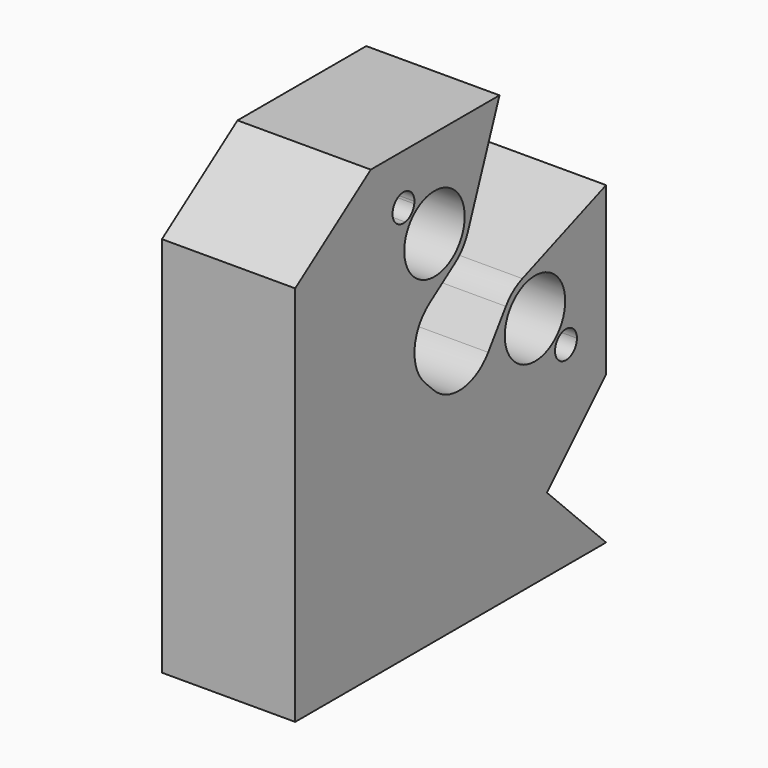
from build123d import *

# Parameters (mm, degrees)
F0_R     = 2.55
F1_DEPTH = 9
F2_DEPTH = 0.8
F4_DEPTH = 9
F7_DEPTH = 9


with BuildPart() as f1:
    # F0 (on Right) → F1 (new body)
    with BuildSketch(Plane.YZ):
        with BuildLine():
            ThreePointArc((-26.7124370169, 10.1882511594), (-26.3563013281, 6.3563288866), (-22.5219113781, 6.0278252414))
            ThreePointArc((-22.5219113781, 6.0278252414), (-21.875519954, 6.6422568398), (-21.4383157397, 7.4195602151))
            ThreePointArc((-21.4383157397, 7.4195602151), (-21.2919649304, 7.9435133623), (-21.2426406871, 8.4852813742))
            ThreePointArc((-21.2426406871, 8.4852813742), (-22.8478126252, 11.1413037156), (-25.9456104723, 10.9550777041))
            ThreePointArc((-25.9456104723, 10.9550777041), (-26.2048620049, 10.447502692), (-26.7124370169, 10.1882511594))
        make_face()
        with Locations((-24.2426406871, 8.4852813742)):
            Circle(F0_R, mode=Mode.SUBTRACT)
        with BuildLine():
            Line((-24.6525061657, 4.5359667102), (-22.5219113781, 6.0278252414))
            ThreePointArc((-22.5219113781, 6.0278252414), (-26.3563013281, 6.3563288866), (-26.7124370169, 10.1882511594))
            ThreePointArc((-26.7124370169, 10.1882511594), (-27.5629018113, 11.7016238155), (-25.9339357775, 11.1015764646))
            ThreePointArc((-25.9339357775, 11.1015764646), (-25.9368590705, 11.0280948592), (-25.9456104723, 10.9550777041))
            ThreePointArc((-25.9456104723, 10.9550777041), (-22.8478126252, 11.1413037156), (-21.2426406871, 8.4852813742))
            ThreePointArc((-21.2426406871, 8.4852813742), (-21.2919649304, 7.9435133623), (-21.4383157397, 7.4195602151))
            Line((-21.4383157397, 7.4195602151), (-18.7531459804, 14.4852813742))
            Line((-18.7531459804, 14.4852813742), (-29.6213270116, 14.4852813742))
            Line((-29.6213270116, 14.4852813742), (-36, 10.018886464))
            Line((-36, 10.018886464), (-36, -5.7573593129))
            Line((-36, -5.7573593129), (-20, -5.7573593129))
            Line((-20, -5.7573593129), (-9.7573593129, -5.7573593129))
            Line((-9.7573593129, -5.7573593129), (-9.7573593129, -5.3786863245))
            Line((-9.7573593129, -5.3786863245), (-9.7573593129, 5.4894947067))
            Line((-9.7573593129, 5.4894947067), (-16.823080472, 2.8043249475))
            ThreePointArc((-16.823080472, 2.8043249475), (-14.0540043113, 2.4695306718), (-12.7573593129, 0))
            ThreePointArc((-12.7573593129, 0), (-12.8929755232, -0.8917990274), (-13.2875629831, -1.7029697852))
            ThreePointArc((-13.2875629831, -1.7029697852), (-12.5410168717, -1.9123290566), (-12.2160642225, -2.6162950904))
            ThreePointArc((-12.2160642225, -2.6162950904), (-13.2145458279, -3.5383717974), (-14.0543895277, -2.4697963298))
            ThreePointArc((-14.0543895277, -2.4697963298), (-17.8863118005, -2.113660641), (-18.2148154457, 1.7207293091))
            Line((-18.2148154457, 1.7207293091), (-19.7066739769, -0.4098654786))
            ThreePointArc((-19.7066739769, -0.4098654786), (-21.9026628816, -1.6777202638), (-24.2854504534, -0.8104565131))
            Line((-24.2854504534, -0.8104565131), (-25.0530972002, -0.0428097662))
            ThreePointArc((-25.0530972002, -0.0428097662), (-25.9203609509, 2.3399778056), (-24.6525061657, 4.5359667102))
        make_face()
        with BuildLine():
            ThreePointArc((-16.823080472, 2.8043249475), (-17.6003838473, 2.3671207332), (-18.2148154457, 1.7207293091))
            ThreePointArc((-18.2148154457, 1.7207293091), (-17.8863118005, -2.113660641), (-14.0543895277, -2.4697963298))
            ThreePointArc((-14.0543895277, -2.4697963298), (-13.7951379951, -1.9622213178), (-13.2875629831, -1.7029697852))
            ThreePointArc((-13.2875629831, -1.7029697852), (-12.8929755232, -0.8917990274), (-12.7573593129, 0))
            ThreePointArc((-12.7573593129, 0), (-14.0540043113, 2.4695306718), (-16.823080472, 2.8043249475))
        make_face()
        with Locations((-15.7573593129, 0)):
            Circle(F0_R, mode=Mode.SUBTRACT)
    extrude(amount=F1_DEPTH)

    # F0 (on Right) → F2 (join)
    with BuildSketch(Plane.YZ):
        with Locations((-15.7573593129, 0)):
            Circle(F0_R)
        with Locations((-24.2426406871, 8.4852813742)):
            Circle(F0_R)
        with BuildLine():
            ThreePointArc((-25.9456104723, 10.9550777041), (-26.3639610307, 10.6066017178), (-26.7124370169, 10.1882511594))
            ThreePointArc((-26.7124370169, 10.1882511594), (-26.2048620049, 10.447502692), (-25.9456104723, 10.9550777041))
        make_face()
        with BuildLine():
            ThreePointArc((-25.9339357775, 11.1015764646), (-27.5629018113, 11.7016238155), (-26.7124370169, 10.1882511594))
            ThreePointArc((-26.7124370169, 10.1882511594), (-26.3639610307, 10.6066017178), (-25.9456104723, 10.9550777041))
            ThreePointArc((-25.9456104723, 10.9550777041), (-25.9368590705, 11.0280948592), (-25.9339357775, 11.1015764646))
        make_face()
        with BuildLine():
            ThreePointArc((-13.2875629831, -1.7029697852), (-13.7951379951, -1.9622213178), (-14.0543895277, -2.4697963298))
            ThreePointArc((-14.0543895277, -2.4697963298), (-13.6360389693, -2.1213203436), (-13.2875629831, -1.7029697852))
        make_face()
        with BuildLine():
            ThreePointArc((-13.2875629831, -1.7029697852), (-13.6360389693, -2.1213203436), (-14.0543895277, -2.4697963298))
            ThreePointArc((-14.0543895277, -2.4697963298), (-13.2145458279, -3.5383717974), (-12.2160642225, -2.6162950904))
            ThreePointArc((-12.2160642225, -2.6162950904), (-12.5410168717, -1.9123290566), (-13.2875629831, -1.7029697852))
        make_face()
    extrude(amount=F2_DEPTH)

    # F3 (on face) → F4 (join, through all)
    with BuildSketch(Plane.YZ):
        Polygon((-20, -5.7573593129), (-36, -5.7573593129), (-36, -15.7573593129), (-19.7573593129, -15.7573593129), (-9.7573593129, -5.7573593129), align=None)
    extrude(amount=F4_DEPTH)

    # F6 (on face) → F7 (join, through all)
    with BuildSketch(Plane.YZ.offset(9)):
        Polygon((-9.7573593129, -15.7573593129), (-14.7573593129, -10.7573593129), (-19.7573593129, -15.7573593129), align=None)
    extrude(amount=-F7_DEPTH)


solid = f1.part
